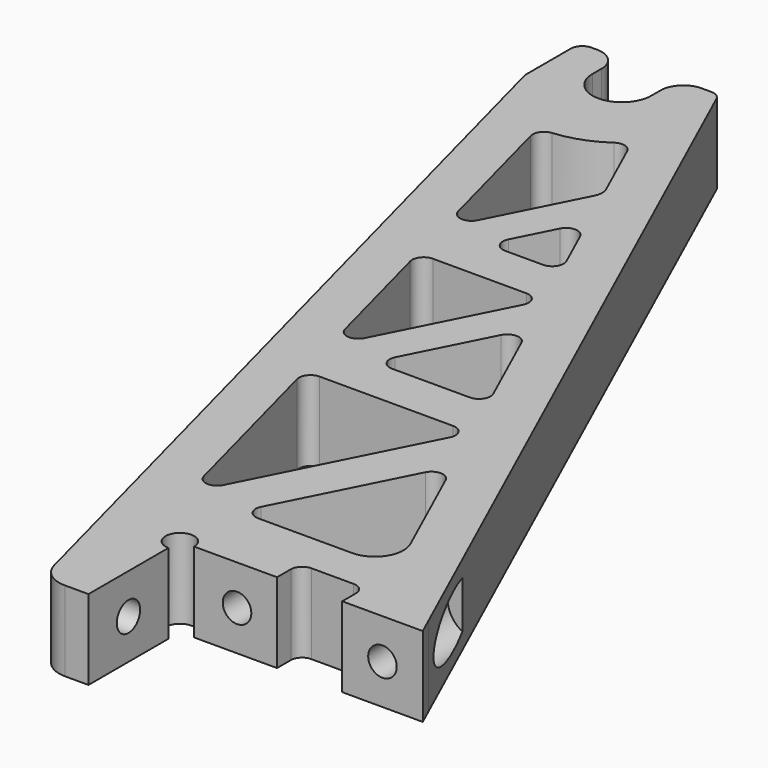
from build123d import *

# Parameters (mm, degrees)
F0_W     = 18.415
F0_H     = 3.81
F1_DEPTH = 17.78
F2_R     = 5.842
F2_R_2   = 3.2385
F3_DEPTH = 25.4
F4_R     = 5.842
F4_R_2   = 3.175
F5_DEPTH = 25.4
F6_DEPTH = 11.43
F7_DEPTH = 6.7437
F8_DEPTH = 11.43


with BuildPart() as f1:
    # F0 (on Top) → F1 (new body)
    with BuildSketch(Plane.XY):
        with BuildLine():
            ThreePointArc((-40.741389, 181.9), (-47.281889, 175.3595), (-53.822389, 181.9))
            Line((-53.822389, 181.9), (-53.822389, 184.44))
            ThreePointArc((-53.822389, 184.44), (-55.310286, 188.032102), (-58.902389, 189.52))
            Line((-58.902389, 189.52), (-60.172389, 189.52))
            ThreePointArc((-60.172389, 189.52), (-61.96844, 188.776051), (-62.712389, 186.98))
            Line((-62.712389, 186.98), (-62.712389, 174.28))
            Line((-62.712389, 174.28), (-11.405862, -20.666177))
            ThreePointArc((-11.405862, -20.666177), (-9.141817, -24.079176), (-5.264977, -25.4))
            Line((-5.264977, -25.4), (-2.54, -25.4))
            Line((-2.54, -25.4), (0, -25.4))
            Line((0, -25.4), (0, -3.175))
            ThreePointArc((0, -3.175), (-2.245064, 2.245064), (3.175, 0))
            Line((3.175, 0), (3.175, 3.81))
            Line((3.175, 3.81), (21.59, 3.81))
            ThreePointArc((21.59, 3.81), (22.333949, 5.606051), (24.13, 6.35))
            Line((24.13, 6.35), (33.528, 6.35))
            ThreePointArc((33.528, 6.35), (35.324051, 5.606051), (36.068, 3.81))
            Line((36.068, 3.81), (52.249596, 3.81))
            Line((52.249596, 3.81), (-31.175642, 188.02783))
            ThreePointArc((-31.175642, 188.02783), (-32.112828, 189.114606), (-33.489438, 189.52))
            Line((-33.489438, 189.52), (-35.661389, 189.52))
            ThreePointArc((-35.661389, 189.52), (-39.253491, 188.032102), (-40.741389, 184.44))
            Line((-40.741389, 184.44), (-40.741389, 181.9))
        make_face()
        with BuildLine():
            Line((12.199936, 59.813391), (-7.329708, 21.209695))
            ThreePointArc((-7.329708, 21.209695), (-9.863664, 19.830428), (-12.052532, 21.709833))
            Line((-12.052532, 21.709833), (-22.21237, 60.313529))
            ThreePointArc((-22.21237, 60.313529), (-21.767686, 62.510736), (-19.756016, 63.5))
            Line((-19.756016, 63.5), (9.933466, 63.5))
            ThreePointArc((9.933466, 63.5), (12.097258, 62.290265), (12.199936, 59.813391))
        make_face(mode=Mode.SUBTRACT)
        with BuildLine():
            Line((26.073642, 15.24), (5.167911, 15.24))
            ThreePointArc((5.167911, 15.24), (3.004119, 16.449735), (2.901441, 18.926609))
            Line((2.901441, 18.926609), (17.049915, 46.893498))
            ThreePointArc((17.049915, 46.893498), (19.37115, 48.286298), (21.630181, 46.794719))
            Line((21.630181, 46.794719), (31.858132, 24.209575))
            ThreePointArc((31.858132, 24.209575), (31.410158, 18.148474), (26.073642, 15.24))
        make_face(mode=Mode.SUBTRACT)
        with BuildLine():
            Line((-9.022239, 106.675746), (-22.704861, 79.629695))
            ThreePointArc((-22.704861, 79.629695), (-25.238817, 78.250428), (-27.427685, 80.129833))
            Line((-27.427685, 80.129833), (-34.545747, 107.175885))
            ThreePointArc((-34.545747, 107.175885), (-34.101063, 109.373091), (-32.089393, 110.362355))
            Line((-32.089393, 110.362355), (-11.288709, 110.362355))
            ThreePointArc((-11.288709, 110.362355), (-9.124918, 109.152621), (-9.022239, 106.675746))
        make_face(mode=Mode.SUBTRACT)
        with BuildLine():
            ThreePointArc((-13.383049, 124.110186), (-13.562239, 121.685745), (-15.696845, 120.522355))
            Line((-15.696845, 120.522355), (-24.116154, 120.522355))
            ThreePointArc((-24.116154, 120.522355), (-26.279946, 121.73209), (-26.382624, 124.208965))
            Line((-26.382624, 124.208965), (-21.940091, 132.990396))
            ThreePointArc((-21.940091, 132.990396), (-19.618855, 134.383196), (-17.359824, 132.891616))
            Line((-17.359824, 132.891616), (-13.383049, 124.110186))
        make_face(mode=Mode.SUBTRACT)
        with BuildLine():
            Line((-39.761062, 126.992189), (-47.664299, 157.021619))
            ThreePointArc((-47.664299, 157.021619), (-47.283962, 159.131562), (-45.424544, 160.198838))
            ThreePointArc((-45.424544, 160.198838), (-39.847134, 161.427711), (-34.780915, 164.064198))
            ThreePointArc((-34.780915, 164.064198), (-32.65263, 164.43414), (-31.009279, 163.032051))
            Line((-31.009279, 163.032051), (-24.933857, 149.616433))
            ThreePointArc((-24.933857, 149.616433), (-24.595436, 147.962539), (-25.004845, 146.324773))
            Line((-25.004845, 146.324773), (-35.038238, 126.49205))
            ThreePointArc((-35.038238, 126.49205), (-37.572194, 125.112783), (-39.761062, 126.992189))
        make_face(mode=Mode.SUBTRACT)
        with BuildLine():
            Line((5.525331, 73.66), (-11.782777, 73.66))
            ThreePointArc((-11.782777, 73.66), (-13.946569, 74.869735), (-14.049247, 77.346609))
            Line((-14.049247, 77.346609), (-4.916449, 95.399154))
            ThreePointArc((-4.916449, 95.399154), (-2.595213, 96.791954), (-0.336183, 95.300374))
            Line((-0.336183, 95.300374), (7.839127, 77.24783))
            ThreePointArc((7.839127, 77.24783), (7.659937, 74.82339), (5.525331, 73.66))
        make_face(mode=Mode.SUBTRACT)
        Polygon((53.975, 0), (52.249596, 3.81), (36.068, 3.81), (36.068, 0), align=None)
        with Locations((12.3825, 1.905)):
            Rectangle(F0_W, F0_H)
    extrude(amount=-F1_DEPTH)

    # F2 (on face) → F3 (cut)
    with BuildSketch(Plane.YZ):
        with Locations((-14.2875, -8.89)):
            Circle(F2_R)
        with Locations((-14.2875, -8.89)):
            Circle(F2_R_2, mode=Mode.SUBTRACT)
        with Locations((-14.2875, -8.89)):
            Circle(F2_R_2)
    extrude(amount=-F3_DEPTH, mode=Mode.SUBTRACT)

    # F4 (on face) → F5 (cut)
    with BuildSketch(Plane.XZ):
        with Locations((12.7, -8.89)):
            Circle(F4_R)
        with Locations((12.7, -8.89)):
            Circle(F4_R_2, mode=Mode.SUBTRACT)
        with Locations((45.0215, -8.89)):
            Circle(F4_R)
        with Locations((45.0215, -8.89)):
            Circle(F4_R_2, mode=Mode.SUBTRACT)
        with Locations((12.7, -8.89)):
            Circle(F4_R_2)
        with Locations((45.0215, -8.89)):
            Circle(F4_R_2)
    extrude(amount=-F5_DEPTH, mode=Mode.SUBTRACT)

    # F4 (on face) → F6 (join)
    with BuildSketch(Plane.XZ):
        with Locations((12.7, -8.89)):
            Circle(F4_R)
        with Locations((12.7, -8.89)):
            Circle(F4_R_2, mode=Mode.SUBTRACT)
    extrude(amount=-F6_DEPTH)

    # F4 (on face) → F7 (join)
    with BuildSketch(Plane.XZ):
        with Locations((45.0215, -8.89)):
            Circle(F4_R)
        with Locations((45.0215, -8.89)):
            Circle(F4_R_2, mode=Mode.SUBTRACT)
    extrude(amount=-F7_DEPTH)

    # F2 (on face) → F8 (join)
    with BuildSketch(Plane.YZ):
        with Locations((-14.2875, -8.89)):
            Circle(F2_R)
        with Locations((-14.2875, -8.89)):
            Circle(F2_R_2, mode=Mode.SUBTRACT)
    extrude(amount=-F8_DEPTH)


solid = f1.part
